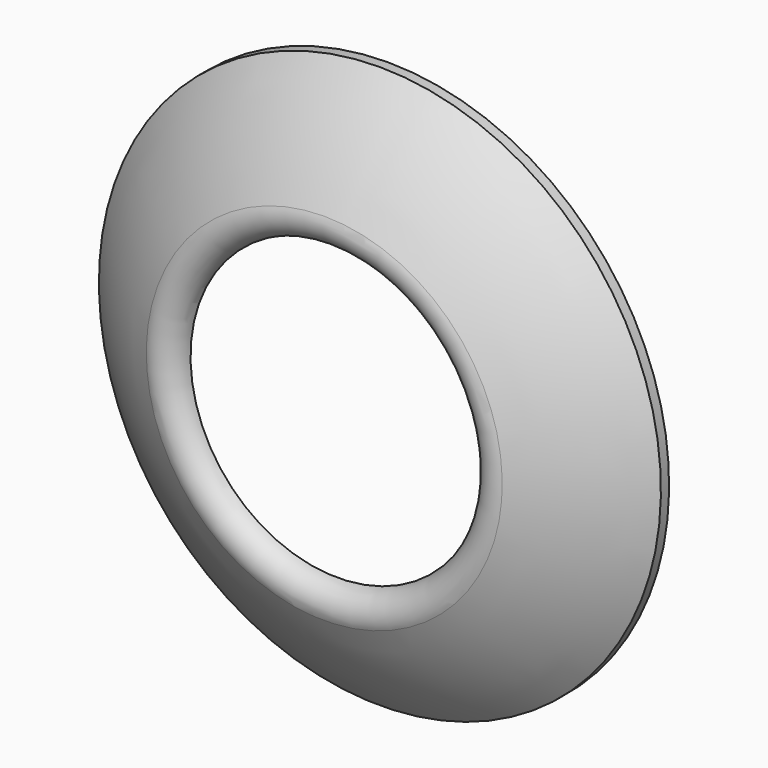
from build123d import *


with BuildPart() as f1:
    # F0 (on Right) → F1 (revolve)
    with BuildSketch(Plane.YZ):
        with BuildLine():
            ThreePointArc((-39.295937, 18.656885), (-35.849445, 24.638735), (-31.5, 30))
            Line((-31.5, 30), (-32.595859, 30))
            ThreePointArc((-32.595859, 30), (-36.72146, 24.779515), (-40.018621, 19))
            ThreePointArc((-40.018621, 19), (-39.965837, 16.900892), (-38.243369, 15.7))
            Line((-38.243369, 15.7), (-38.243369, 16.512238))
            ThreePointArc((-38.243369, 16.512238), (-39.287326, 17.330493), (-39.295937, 18.656885))
        make_face()
    revolve(axis=Axis((0, -20.00931, 0), (0, -1, 0)))


solid = f1.part
